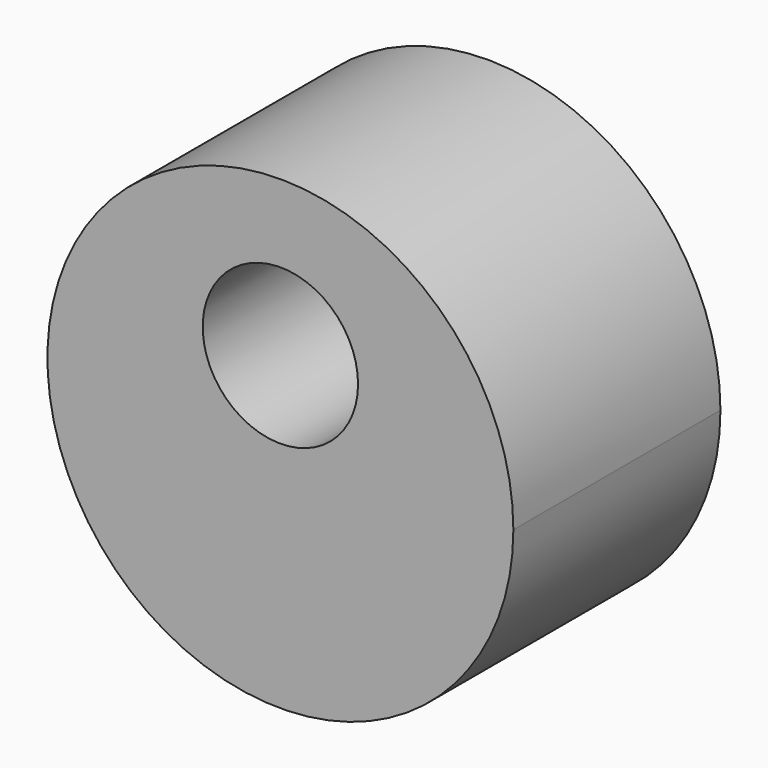
from build123d import *

# Parameters (mm, degrees)
F0_R     = 7.5
F1_DEPTH = 25


with BuildPart() as f1:
    # F0 (on Front) → F1 (new body)
    with BuildSketch(Plane.XZ):
        with BuildLine():
            ThreePointArc((-4.174435, 6.699871), (-1.173548, -31.553388), (31.54461, -11.507459))
            ThreePointArc((31.54461, -11.507459), (19.262768, 8.538469), (-4.174435, 6.699871))
        make_face()
        with Locations((9.04461, -4.007459)):
            Circle(F0_R, mode=Mode.SUBTRACT)
    extrude(amount=F1_DEPTH)


solid = f1.part
